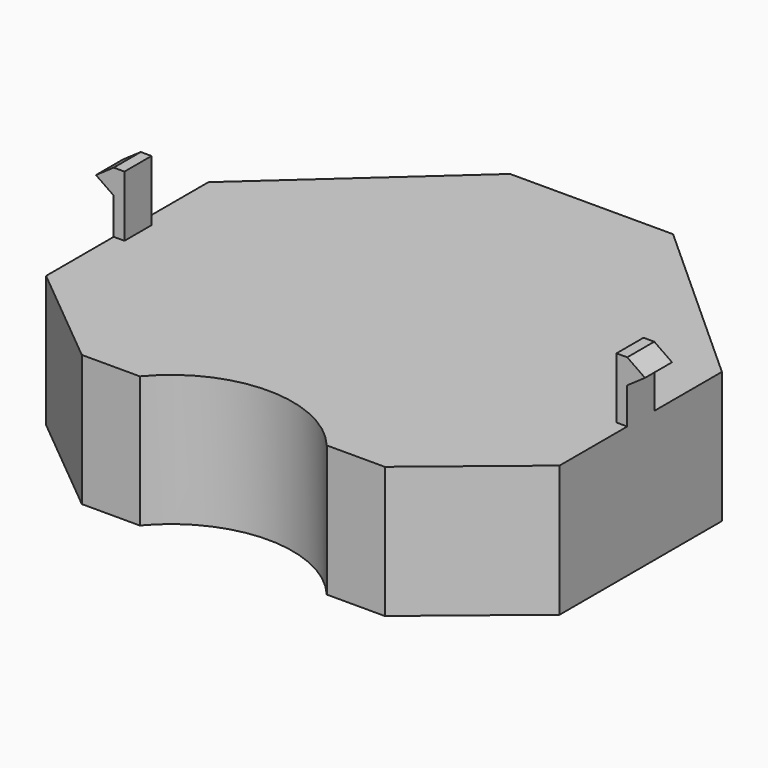
from build123d import *

# Parameters (mm, degrees)
F1_DEPTH      = 6.1
F3_DEPTH      = 0.785
F3_DEPTH_BACK = 0.785
F5_DEPTH      = 8.931
F6_ANGLE      = 180


with BuildPart() as f1:
    # F0 (on Top) → F1 (new body)
    with BuildSketch(Plane.XY):
        Polygon((-7.0355, 8.75), (-11.925, 4.7117), (-11.925, -4.7117), (-3.785, -12.05), (3.785, -12.05), (11.925, -4.7117), (11.925, 4.7117), (7.0355, 8.75), align=None)
    extrude(amount=F1_DEPTH)

    # F2 (on Front) → F3 (join, two sides)
    with BuildSketch(Plane.XZ) as f3_sk:
        Polygon((-11.425, 0), (-11.925, 0), (-11.925, -1.6852878034), (-12.75, -2.2576439017), (-11.925, -2.83), (-11.425, -2.83), align=None)
        Polygon((11.925, -1.6852878034), (11.925, 0), (11.425, 0), (11.425, -2.83), (11.925, -2.83), (12.75, -2.2576439017), align=None)
    extrude(amount=F3_DEPTH)
    extrude(f3_sk.sketch, amount=-F3_DEPTH_BACK)

    # F4 (on face) → F5 (cut, through all)
    with BuildSketch(Plane.XY.offset(6.1)):
        with BuildLine():
            Line((4.342041453, 8.75), (-4.342041453, 8.75))
            ThreePointArc((-4.342041453, 8.75), (0, 6.7139288477), (4.342041453, 8.75))
        make_face()
    extrude(amount=-F5_DEPTH, mode=Mode.SUBTRACT)


with BuildPart() as f1_1:
    # F6: moved
    add(f1.part.rotate(Axis((-2.2744432418, 0, 0), (1, 0, 0)), F6_ANGLE))


solid = f1_1.part
